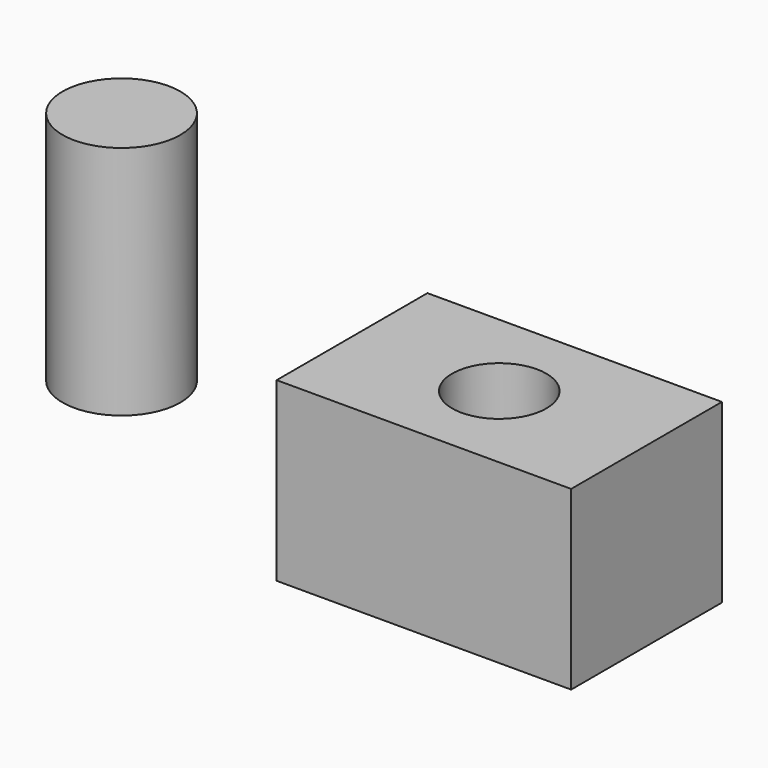
from build123d import *

# Parameters (mm, degrees)
F0_W     = 25
F0_H     = 16
F0_R     = 4
F1_DEPTH = 15
F2_R     = 5
F3_DEPTH = 20


with BuildPart() as f1:
    # F0 (on Top) → F1 (new body)
    with BuildSketch(Plane.XY):
        with Locations((12.5, -8)):
            Rectangle(F0_W, F0_H)
        with Locations((12.5, -8)):
            Circle(F0_R, mode=Mode.SUBTRACT)
    extrude(amount=F1_DEPTH)


with BuildPart() as f3:
    # F2 (on Top) → F3 (new body)
    with BuildSketch(Plane.XY):
        with Locations((-25.971068, 0)):
            Circle(F2_R)
    extrude(amount=F3_DEPTH)


solid = Compound([f1.part, f3.part])
